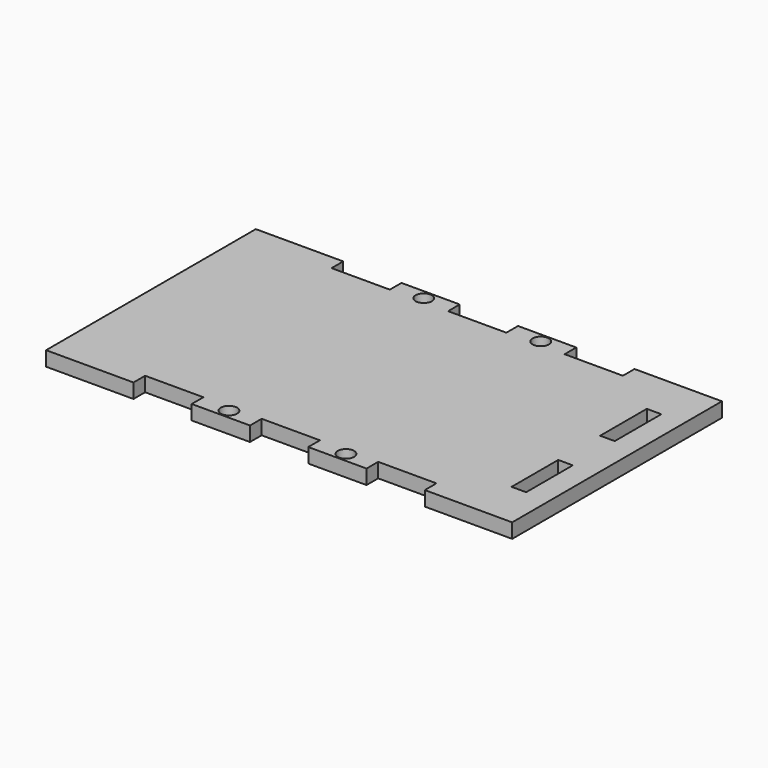
from build123d import *

# Parameters (mm, degrees)
F0_W     = 101.6
F0_H     = 57.15
F1_DEPTH = 3.175
F2_W     = 12.7
F2_H     = 3.175
F2_W_2   = 3.175
F2_H_2   = 12.7
F3_DEPTH = 3.176
F5_D     = 3.556


with BuildPart() as f1:
    # F0 (on Top) → F1 (new body)
    with BuildSketch(Plane.XY):
        Rectangle(F0_W, F0_H)
    extrude(amount=F1_DEPTH)

    # F2 (on face) → F3 (cut, through all)
    with BuildSketch(Plane.XY.offset(3.175)):
        with Locations((-25.4, -26.9875)):
            Rectangle(F2_W, F2_H)
        with Locations((0, -26.9875)):
            Rectangle(F2_W, F2_H)
        with Locations((25.4, -26.9875)):
            Rectangle(F2_W, F2_H)
        with Locations((44.1325, -12.065)):
            Rectangle(F2_W_2, F2_H_2)
        with Locations((44.1325, 12.065)):
            Rectangle(F2_W_2, F2_H_2)
        with Locations((-25.4, 26.9875)):
            Rectangle(F2_W, F2_H)
        with Locations((0, 26.9875)):
            Rectangle(F2_W, F2_H)
        with Locations((25.4, 26.9875)):
            Rectangle(F2_W, F2_H)
    extrude(amount=-F3_DEPTH, mode=Mode.SUBTRACT)

    # F5 (through all)
    with Locations(Plane(origin=(0, 0, 0), x_dir=(1, 0, 0), z_dir=(0, 0, -1))):
        with Locations((-12.566888, 26.543), (12.935686, 26.543), (-12.566888, -26.543), (12.935686, -26.543)):
            Hole(F5_D / 2)


solid = f1.part
